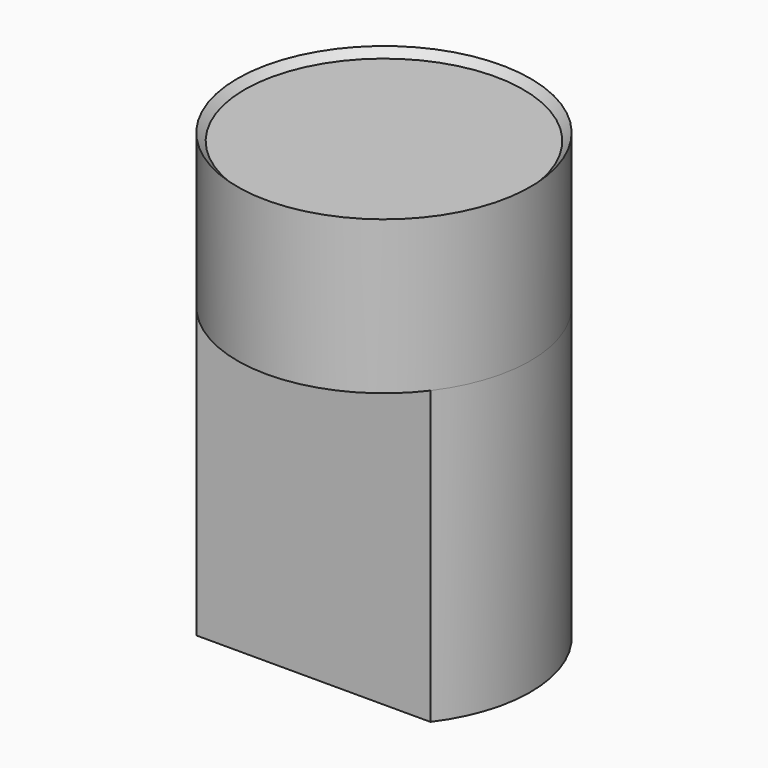
from build123d import *

# Parameters (mm, degrees)
F3_DEPTH = 25.4


with BuildPart() as f1:
    # F0 (on Front) → F1 (revolve)
    with BuildSketch(Plane.XZ):
        Polygon((-12.7635, 0), (0, 0), (0, 12.7), (-12.1285, 12.7), (-12.7635, 12.7), align=None)
        Polygon((-12.7635, 12.7), (-12.1285, 12.7), (-12.7635, 13.335), align=None)
    revolve(axis=Axis((0, 0, 6.35), (0, 0, 1)))

    # F2 (on face) → F3 (join)
    with BuildSketch(Plane(origin=(0, 0, 0), x_dir=(1, 0, 0), z_dir=(0, 0, -1))):
        with BuildLine():
            Line((10.191701, 7.6835), (-10.191701, 7.6835))
            ThreePointArc((-10.191701, 7.6835), (0, -12.7635), (10.191701, 7.6835))
        make_face()
    extrude(amount=F3_DEPTH)


solid = f1.part
